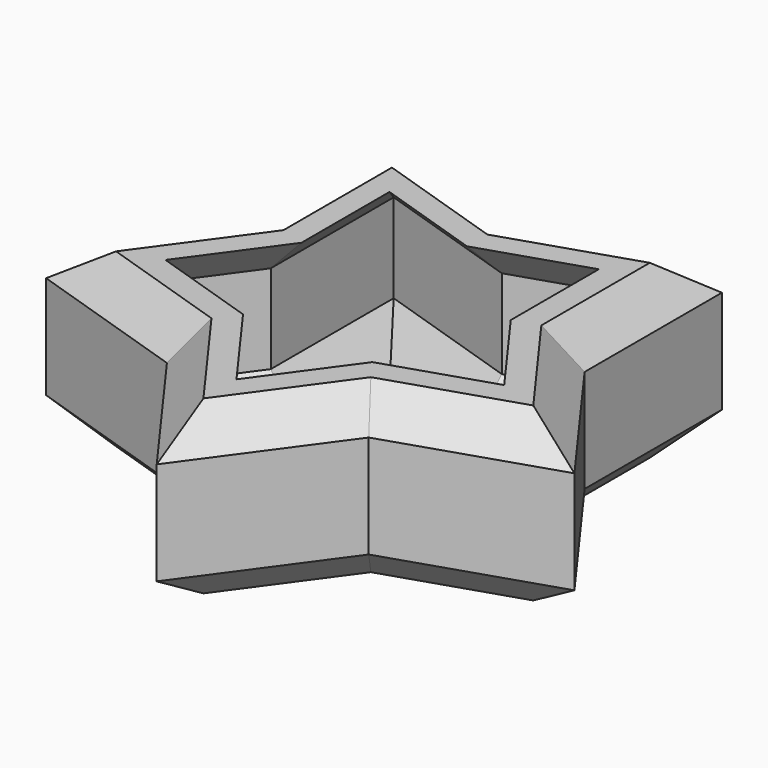
from build123d import *

# Parameters (mm, degrees)
F1_DEPTH = 12.7
F2_SIZE  = 2.54
F3_T     = -1.27


with BuildPart() as f1:
    # F0 (on Top) → F1 (new body)
    with BuildSketch(Plane.XY):
        Polygon((-7.4648727041, -10.2745158286), (0, -20.5490316571), (7.4648727041, -10.2745158286), (19.5432904611, -6.35), (12.0784177569, 3.9245158286), (12.0784177569, 16.6245158286), (0, 12.7), (-12.0784177569, 16.6245158286), (-12.0784177569, 3.9245158286), (-19.5432904611, -6.35), align=None)
    extrude(amount=F1_DEPTH)

    # F2
    f2_edges = [f1.edges().sort_by_distance(p)[0] for p in [
        (-3.732436, -15.411774, 12.7),
        (3.732436, -15.411774, 12.7),
        (13.504082, -8.312258, 12.7),
        (15.810854, -1.212742, 12.7),
        (12.078418, 10.274516, 12.7),
        (6.039209, 14.662258, 12.7),
        (-6.039209, 14.662258, 12.7),
        (-12.078418, 10.274516, 12.7),
        (-15.810854, -1.212742, 12.7),
        (-13.504082, -8.312258, 12.7),
        (-13.504082, -8.312258, 0),
        (-3.732436, -15.411774, 0),
        (3.732436, -15.411774, 0),
        (13.504082, -8.312258, 0),
        (15.810854, -1.212742, 0),
        (12.078418, 10.274516, 0),
        (6.039209, 14.662258, 0),
        (-6.039209, 14.662258, 0),
        (-12.078418, 10.274516, 0),
        (-15.810854, -1.212742, 0),
    ]]
    chamfer(f2_edges, length=F2_SIZE)

    # F3
    f3_openings = [f1.faces().sort_by_distance(p)[0] for p in [
        (0, 0, 0),
        (0, 0, 12.7),
    ]]
    offset(amount=F3_T, openings=f3_openings, kind=Kind.INTERSECTION)


solid = f1.part
